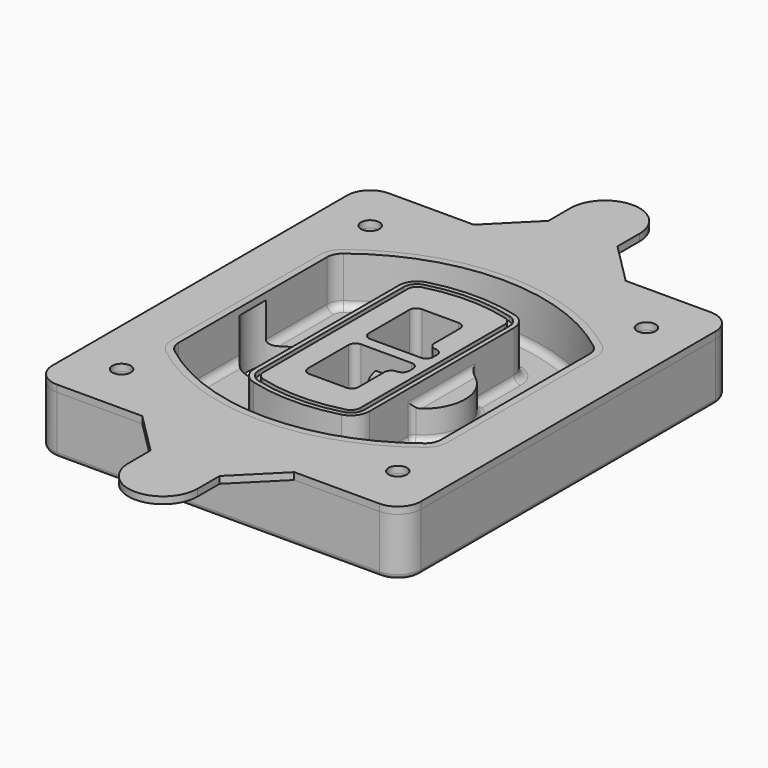
from build123d import *

# Parameters (mm, degrees)
F0_R      = 4
F1_DEPTH  = 25
F2_DEPTH  = 3
F3_DEPTH  = 18
F5_DEPTH  = 21
F6_DEPTH  = 2
F8_DEPTH  = 20
F9_DEPTH  = 16
F10_DEPTH = 25
F7_R      = 6
F7_R_2    = 4
F11_DEPTH = 6
F13_DEPTH = 9
F14_R     = 3
F15_R     = 2
F16_R     = 4
F16_R_2   = 6
F17_DEPTH = 3


with BuildPart() as f1:
    # F0 (on Top) → F1 (new body)
    with BuildSketch(Plane.XY):
        with BuildLine():
            ThreePointArc((-80, -80), (-77.0710678119, -87.0710678119), (-70, -90))
            Line((-70, -90), (70, -90))
            ThreePointArc((70, -90), (77.0710678119, -87.0710678119), (80, -80))
            Line((80, -80), (80, 80))
            ThreePointArc((80, 80), (77.0710678119, 87.0710678119), (70, 90))
            Line((70, 90), (-70, 90))
            ThreePointArc((-70, 90), (-77.0710678119, 87.0710678119), (-80, 80))
            Line((-80, 80), (-80, -80))
        make_face()
        with Locations((-60, -67.5)):
            Circle(F0_R, mode=Mode.SUBTRACT)
        with Locations((60, -67.5)):
            Circle(F0_R, mode=Mode.SUBTRACT)
        with Locations((-60, 67.5)):
            Circle(F0_R, mode=Mode.SUBTRACT)
        with BuildLine():
            ThreePointArc((-64, 40.2934422872), (-62.5820384798, 46.4328484224), (-58.6153846154, 51.3286200352))
            ThreePointArc((-58.6153846154, 51.3286200352), (0, 71.5), (58.6153846154, 51.3286200352))
            ThreePointArc((58.6153846154, 51.3286200352), (62.5820384798, 46.4328484224), (64, 40.2934422872))
            Line((64, 40.2934422872), (64, -40.2934422872))
            ThreePointArc((64, -40.2934422872), (62.5820384798, -46.4328484224), (58.6153846154, -51.3286200352))
            ThreePointArc((58.6153846154, -51.3286200352), (0, -71.5), (-58.6153846154, -51.3286200352))
            ThreePointArc((-58.6153846154, -51.3286200352), (-62.5820384798, -46.4328484224), (-64, -40.2934422872))
            Line((-64, -40.2934422872), (-64, 40.2934422872))
        make_face(mode=Mode.SUBTRACT)
        with Locations((60, 67.5)):
            Circle(F0_R, mode=Mode.SUBTRACT)
        with BuildLine():
            ThreePointArc((58.6153846154, 51.3286200352), (0, 71.5), (-58.6153846154, 51.3286200352))
            ThreePointArc((-58.6153846154, 51.3286200352), (-62.5820384798, 46.4328484224), (-64, 40.2934422872))
            Line((-64, 40.2934422872), (-64, -40.2934422872))
            ThreePointArc((-64, -40.2934422872), (-62.5820384798, -46.4328484224), (-58.6153846154, -51.3286200352))
            ThreePointArc((-58.6153846154, -51.3286200352), (0, -71.5), (58.6153846154, -51.3286200352))
            ThreePointArc((58.6153846154, -51.3286200352), (62.5820384798, -46.4328484224), (64, -40.2934422872))
            Line((64, -40.2934422872), (64, 40.2934422872))
            ThreePointArc((64, 40.2934422872), (62.5820384798, 46.4328484224), (58.6153846154, 51.3286200352))
        make_face()
        with BuildLine():
            Line((-60, -40.2934422872), (-60, 40.2934422872))
            ThreePointArc((-60, 40.2934422872), (-58.9871703427, 44.6787323838), (-56.1538461538, 48.1757121072))
            ThreePointArc((-56.1538461538, 48.1757121072), (0, 67.5), (56.1538461538, 48.1757121072))
            ThreePointArc((56.1538461538, 48.1757121072), (58.9871703427, 44.6787323838), (60, 40.2934422872))
            Line((60, 40.2934422872), (60, -40.2934422872))
            ThreePointArc((60, -40.2934422872), (58.9871703427, -44.6787323838), (56.1538461538, -48.1757121072))
            ThreePointArc((56.1538461538, -48.1757121072), (0, -67.5), (-56.1538461538, -48.1757121072))
            ThreePointArc((-56.1538461538, -48.1757121072), (-58.9871703427, -44.6787323838), (-60, -40.2934422872))
        make_face(mode=Mode.SUBTRACT)
        with BuildLine():
            ThreePointArc((-56.1538461538, 48.1757121072), (-58.9871703427, 44.6787323838), (-60, 40.2934422872))
            Line((-60, 40.2934422872), (-60, -40.2934422872))
            ThreePointArc((-60, -40.2934422872), (-58.9871703427, -44.6787323838), (-56.1538461538, -48.1757121072))
            ThreePointArc((-56.1538461538, -48.1757121072), (0, -67.5), (56.1538461538, -48.1757121072))
            ThreePointArc((56.1538461538, -48.1757121072), (58.9871703427, -44.6787323838), (60, -40.2934422872))
            Line((60, -40.2934422872), (60, 40.2934422872))
            ThreePointArc((60, 40.2934422872), (58.9871703427, 44.6787323838), (56.1538461538, 48.1757121072))
            ThreePointArc((56.1538461538, 48.1757121072), (0, 67.5), (-56.1538461538, 48.1757121072))
        make_face()
        with BuildLine():
            ThreePointArc((54.3076923077, 45.8110311612), (56.2910192399, 43.3631453548), (57, 40.2934422872))
            Line((57, 40.2934422872), (57, -40.2934422872))
            ThreePointArc((57, -40.2934422872), (56.2910192399, -43.3631453548), (54.3076923077, -45.8110311612))
            ThreePointArc((54.3076923077, -45.8110311612), (0, -64.5), (-54.3076923077, -45.8110311612))
            ThreePointArc((-54.3076923077, -45.8110311612), (-56.2910192399, -43.3631453548), (-57, -40.2934422872))
            Line((-57, -40.2934422872), (-57, 40.2934422872))
            ThreePointArc((-57, 40.2934422872), (-56.2910192399, 43.3631453548), (-54.3076923077, 45.8110311612))
            ThreePointArc((-54.3076923077, 45.8110311612), (0, 64.5), (54.3076923077, 45.8110311612))
        make_face(mode=Mode.SUBTRACT)
        with BuildLine():
            Line((57, -40.2934422872), (57, 40.2934422872))
            ThreePointArc((57, 40.2934422872), (56.2910192399, 43.3631453548), (54.3076923077, 45.8110311612))
            ThreePointArc((54.3076923077, 45.8110311612), (0, 64.5), (-54.3076923077, 45.8110311612))
            ThreePointArc((-54.3076923077, 45.8110311612), (-56.2910192399, 43.3631453548), (-57, 40.2934422872))
            Line((-57, 40.2934422872), (-57, -40.2934422872))
            ThreePointArc((-57, -40.2934422872), (-56.2910192399, -43.3631453548), (-54.3076923077, -45.8110311612))
            ThreePointArc((-54.3076923077, -45.8110311612), (0, -64.5), (54.3076923077, -45.8110311612))
            ThreePointArc((54.3076923077, -45.8110311612), (56.2910192399, -43.3631453548), (57, -40.2934422872))
        make_face()
    extrude(amount=-F1_DEPTH)

    # F0 (on Top) → F2 (join)
    with BuildSketch(Plane.XY):
        with BuildLine():
            ThreePointArc((-56.1538461538, 48.1757121072), (-58.9871703427, 44.6787323838), (-60, 40.2934422872))
            Line((-60, 40.2934422872), (-60, -40.2934422872))
            ThreePointArc((-60, -40.2934422872), (-58.9871703427, -44.6787323838), (-56.1538461538, -48.1757121072))
            ThreePointArc((-56.1538461538, -48.1757121072), (0, -67.5), (56.1538461538, -48.1757121072))
            ThreePointArc((56.1538461538, -48.1757121072), (58.9871703427, -44.6787323838), (60, -40.2934422872))
            Line((60, -40.2934422872), (60, 40.2934422872))
            ThreePointArc((60, 40.2934422872), (58.9871703427, 44.6787323838), (56.1538461538, 48.1757121072))
            ThreePointArc((56.1538461538, 48.1757121072), (0, 67.5), (-56.1538461538, 48.1757121072))
        make_face()
        with BuildLine():
            ThreePointArc((54.3076923077, 45.8110311612), (56.2910192399, 43.3631453548), (57, 40.2934422872))
            Line((57, 40.2934422872), (57, -40.2934422872))
            ThreePointArc((57, -40.2934422872), (56.2910192399, -43.3631453548), (54.3076923077, -45.8110311612))
            ThreePointArc((54.3076923077, -45.8110311612), (0, -64.5), (-54.3076923077, -45.8110311612))
            ThreePointArc((-54.3076923077, -45.8110311612), (-56.2910192399, -43.3631453548), (-57, -40.2934422872))
            Line((-57, -40.2934422872), (-57, 40.2934422872))
            ThreePointArc((-57, 40.2934422872), (-56.2910192399, 43.3631453548), (-54.3076923077, 45.8110311612))
            ThreePointArc((-54.3076923077, 45.8110311612), (0, 64.5), (54.3076923077, 45.8110311612))
        make_face(mode=Mode.SUBTRACT)
    extrude(amount=F2_DEPTH)

    # F0 (on Top) → F3 (cut)
    with BuildSketch(Plane.XY):
        with BuildLine():
            Line((57, -40.2934422872), (57, 40.2934422872))
            ThreePointArc((57, 40.2934422872), (56.2910192399, 43.3631453548), (54.3076923077, 45.8110311612))
            ThreePointArc((54.3076923077, 45.8110311612), (0, 64.5), (-54.3076923077, 45.8110311612))
            ThreePointArc((-54.3076923077, 45.8110311612), (-56.2910192399, 43.3631453548), (-57, 40.2934422872))
            Line((-57, 40.2934422872), (-57, -40.2934422872))
            ThreePointArc((-57, -40.2934422872), (-56.2910192399, -43.3631453548), (-54.3076923077, -45.8110311612))
            ThreePointArc((-54.3076923077, -45.8110311612), (0, -64.5), (54.3076923077, -45.8110311612))
            ThreePointArc((54.3076923077, -45.8110311612), (56.2910192399, -43.3631453548), (57, -40.2934422872))
        make_face()
    extrude(amount=-F3_DEPTH, mode=Mode.SUBTRACT)

    # F4 (on face) → F5 (join, through all)
    with BuildSketch(Plane.XY.offset(3)):
        with BuildLine():
            ThreePointArc((-25, -39.2465276821), (-23.3511545998, -44.1109737193), (-19.0842911877, -46.9702398883))
            ThreePointArc((-19.0842911877, -46.9702398883), (0, -49.5), (19.0842911877, -46.9702398883))
            ThreePointArc((19.0842911877, -46.9702398883), (23.3511545998, -44.1109737193), (25, -39.2465276821))
            Line((25, -39.2465276821), (25, 39.2465276821))
            ThreePointArc((25, 39.2465276821), (23.3511545998, 44.1109737193), (19.0842911877, 46.9702398883))
            ThreePointArc((19.0842911877, 46.9702398883), (0, 49.5), (-19.0842911877, 46.9702398883))
            ThreePointArc((-19.0842911877, 46.9702398883), (-23.3511545998, 44.1109737193), (-25, 39.2465276821))
            Line((-25, 39.2465276821), (-25, -39.2465276821))
        make_face()
        with BuildLine():
            ThreePointArc((18.5632183908, 45.0393118368), (21.7633659499, 42.89486221), (23, 39.2465276821))
            Line((23, 39.2465276821), (23, -39.2465276821))
            ThreePointArc((23, -39.2465276821), (21.7633659499, -42.89486221), (18.5632183908, -45.0393118368))
            ThreePointArc((18.5632183908, -45.0393118368), (0, -47.5), (-18.5632183908, -45.0393118368))
            ThreePointArc((-18.5632183908, -45.0393118368), (-21.7633659499, -42.89486221), (-23, -39.2465276821))
            Line((-23, -39.2465276821), (-23, 39.2465276821))
            ThreePointArc((-23, 39.2465276821), (-21.7633659499, 42.89486221), (-18.5632183908, 45.0393118368))
            ThreePointArc((-18.5632183908, 45.0393118368), (0, 47.5), (18.5632183908, 45.0393118368))
        make_face(mode=Mode.SUBTRACT)
        with BuildLine():
            Line((23, -39.2465276821), (23, 39.2465276821))
            ThreePointArc((23, 39.2465276821), (21.7633659499, 42.89486221), (18.5632183908, 45.0393118368))
            ThreePointArc((18.5632183908, 45.0393118368), (0, 47.5), (-18.5632183908, 45.0393118368))
            ThreePointArc((-18.5632183908, 45.0393118368), (-21.7633659499, 42.89486221), (-23, 39.2465276821))
            Line((-23, 39.2465276821), (-23, -39.2465276821))
            ThreePointArc((-23, -39.2465276821), (-21.7633659499, -42.89486221), (-18.5632183908, -45.0393118368))
            ThreePointArc((-18.5632183908, -45.0393118368), (0, -47.5), (18.5632183908, -45.0393118368))
            ThreePointArc((18.5632183908, -45.0393118368), (21.7633659499, -42.89486221), (23, -39.2465276821))
        make_face()
        with BuildLine():
            ThreePointArc((18.0421455939, 43.1083837852), (20.1755772999, 41.6787507007), (21, 39.2465276821))
            Line((21, 39.2465276821), (21, -39.2465276821))
            ThreePointArc((21, -39.2465276821), (20.1755772999, -41.6787507007), (18.0421455939, -43.1083837852))
            ThreePointArc((18.0421455939, -43.1083837852), (0, -45.5), (-18.0421455939, -43.1083837852))
            ThreePointArc((-18.0421455939, -43.1083837852), (-20.1755772999, -41.6787507007), (-21, -39.2465276821))
            Line((-21, -39.2465276821), (-21, 39.2465276821))
            ThreePointArc((-21, 39.2465276821), (-20.1755772999, 41.6787507007), (-18.0421455939, 43.1083837852))
            ThreePointArc((-18.0421455939, 43.1083837852), (0, 45.5), (18.0421455939, 43.1083837852))
        make_face(mode=Mode.SUBTRACT)
        with BuildLine():
            Line((21, -39.2465276821), (21, 39.2465276821))
            ThreePointArc((21, 39.2465276821), (20.1755772999, 41.6787507007), (18.0421455939, 43.1083837852))
            ThreePointArc((18.0421455939, 43.1083837852), (0, 45.5), (-18.0421455939, 43.1083837852))
            ThreePointArc((-18.0421455939, 43.1083837852), (-20.1755772999, 41.6787507007), (-21, 39.2465276821))
            Line((-21, 39.2465276821), (-21, -39.2465276821))
            ThreePointArc((-21, -39.2465276821), (-20.1755772999, -41.6787507007), (-18.0421455939, -43.1083837852))
            ThreePointArc((-18.0421455939, -43.1083837852), (0, -45.5), (18.0421455939, -43.1083837852))
            ThreePointArc((18.0421455939, -43.1083837852), (20.1755772999, -41.6787507007), (21, -39.2465276821))
        make_face()
        with BuildLine():
            Line((-8, -2.5), (14, -2.5))
            ThreePointArc((14, -2.5), (16.1213203436, -3.3786796564), (17, -5.5))
            Line((17, -5.5), (17, -7.5))
            ThreePointArc((17, -7.5), (16.1213203436, -9.6213203436), (14, -10.5))
            ThreePointArc((14, -10.5), (11.8786796564, -11.3786796564), (11, -13.5))
            Line((11, -13.5), (11, -27.5))
            ThreePointArc((11, -27.5), (10.1213203436, -29.6213203436), (8, -30.5))
            Line((8, -30.5), (-8, -30.5))
            ThreePointArc((-8, -30.5), (-10.1213203436, -29.6213203436), (-11, -27.5))
            Line((-11, -27.5), (-11, -5.5))
            ThreePointArc((-11, -5.5), (-10.1213203436, -3.3786796564), (-8, -2.5))
        make_face(mode=Mode.SUBTRACT)
        with BuildLine():
            ThreePointArc((-8, 2.5), (-10.1213203436, 3.3786796564), (-11, 5.5))
            Line((-11, 5.5), (-11, 27.5))
            ThreePointArc((-11, 27.5), (-10.1213203436, 29.6213203436), (-8, 30.5))
            Line((-8, 30.5), (8, 30.5))
            ThreePointArc((8, 30.5), (10.1213203436, 29.6213203436), (11, 27.5))
            Line((11, 27.5), (11, 13.5))
            ThreePointArc((11, 13.5), (11.8786796564, 11.3786796564), (14, 10.5))
            ThreePointArc((14, 10.5), (16.1213203436, 9.6213203436), (17, 7.5))
            Line((17, 7.5), (17, 5.5))
            ThreePointArc((17, 5.5), (16.1213203436, 3.3786796564), (14, 2.5))
            Line((14, 2.5), (-8, 2.5))
        make_face(mode=Mode.SUBTRACT)
    extrude(amount=-F5_DEPTH)

    # F4 (on face) → F6 (cut)
    with BuildSketch(Plane.XY.offset(3)):
        with BuildLine():
            Line((23, -39.2465276821), (23, 39.2465276821))
            ThreePointArc((23, 39.2465276821), (21.7633659499, 42.89486221), (18.5632183908, 45.0393118368))
            ThreePointArc((18.5632183908, 45.0393118368), (0, 47.5), (-18.5632183908, 45.0393118368))
            ThreePointArc((-18.5632183908, 45.0393118368), (-21.7633659499, 42.89486221), (-23, 39.2465276821))
            Line((-23, 39.2465276821), (-23, -39.2465276821))
            ThreePointArc((-23, -39.2465276821), (-21.7633659499, -42.89486221), (-18.5632183908, -45.0393118368))
            ThreePointArc((-18.5632183908, -45.0393118368), (0, -47.5), (18.5632183908, -45.0393118368))
            ThreePointArc((18.5632183908, -45.0393118368), (21.7633659499, -42.89486221), (23, -39.2465276821))
        make_face()
        with BuildLine():
            ThreePointArc((18.0421455939, 43.1083837852), (20.1755772999, 41.6787507007), (21, 39.2465276821))
            Line((21, 39.2465276821), (21, -39.2465276821))
            ThreePointArc((21, -39.2465276821), (20.1755772999, -41.6787507007), (18.0421455939, -43.1083837852))
            ThreePointArc((18.0421455939, -43.1083837852), (0, -45.5), (-18.0421455939, -43.1083837852))
            ThreePointArc((-18.0421455939, -43.1083837852), (-20.1755772999, -41.6787507007), (-21, -39.2465276821))
            Line((-21, -39.2465276821), (-21, 39.2465276821))
            ThreePointArc((-21, 39.2465276821), (-20.1755772999, 41.6787507007), (-18.0421455939, 43.1083837852))
            ThreePointArc((-18.0421455939, 43.1083837852), (0, 45.5), (18.0421455939, 43.1083837852))
        make_face(mode=Mode.SUBTRACT)
    extrude(amount=-F6_DEPTH, mode=Mode.SUBTRACT)

    # F7 (on face) → F8 (join)
    with BuildSketch(Plane(origin=(0, 0, -25), x_dir=(1, 0, 0), z_dir=(0, 0, -1))):
        with BuildLine():
            ThreePointArc((3.28842436, 0), (16.7567035675, 13.4682792075), (30.224982775, 0))
            Line((30.224982775, 0), (35.224982775, 0))
            ThreePointArc((35.224982775, 0), (16.7567035675, 18.4682792075), (-1.71157564, 0))
            Line((-1.71157564, 0), (3.28842436, 0))
        make_face()
        with BuildLine():
            Line((3.28842436, 0), (30.224982775, 0))
            ThreePointArc((30.224982775, 0), (16.7567035675, 13.4682792075), (3.28842436, 0))
        make_face()
        with BuildLine():
            ThreePointArc((3.28842436, 0), (16.7567035675, -13.4682792075), (30.224982775, 0))
            Line((30.224982775, 0), (3.28842436, 0))
        make_face()
        with BuildLine():
            Line((35.224982775, 0), (30.224982775, 0))
            ThreePointArc((30.224982775, 0), (16.7567035675, -13.4682792075), (3.28842436, 0))
            Line((3.28842436, 0), (-1.71157564, 0))
            ThreePointArc((-1.71157564, 0), (16.7567035675, -18.4682792075), (35.224982775, 0))
        make_face()
    extrude(amount=-F8_DEPTH)

    # F7 (on face) → F9 (cut)
    with BuildSketch(Plane(origin=(0, 0, -25), x_dir=(1, 0, 0), z_dir=(0, 0, -1))):
        with BuildLine():
            Line((3.28842436, 0), (30.224982775, 0))
            ThreePointArc((30.224982775, 0), (16.7567035675, 13.4682792075), (3.28842436, 0))
        make_face()
        with BuildLine():
            ThreePointArc((3.28842436, 0), (16.7567035675, -13.4682792075), (30.224982775, 0))
            Line((30.224982775, 0), (3.28842436, 0))
        make_face()
    extrude(amount=-F9_DEPTH, mode=Mode.SUBTRACT)

    # F7 (on face) → F10 (cut)
    with BuildSketch(Plane(origin=(0, 0, -25), x_dir=(1, 0, 0), z_dir=(0, 0, -1))):
        with BuildLine():
            Line((-59.0318229325, 0), (-32.0952645175, 0))
            ThreePointArc((-32.0952645175, 0), (-45.563543725, 13.4682792075), (-59.0318229325, 0))
        make_face()
        with BuildLine():
            ThreePointArc((-59.0318229325, 0), (-45.563543725, -13.4682792075), (-32.0952645175, 0))
            Line((-32.0952645175, 0), (-59.0318229325, 0))
        make_face()
    extrude(amount=-F10_DEPTH, mode=Mode.SUBTRACT)

    # F7 (on face) → F11 (cut)
    with BuildSketch(Plane(origin=(0, 0, -25), x_dir=(1, 0, 0), z_dir=(0, 0, -1))):
        with Locations((60, -67.5)):
            Circle(F7_R)
        with Locations((60, -67.5)):
            Circle(F7_R_2, mode=Mode.SUBTRACT)
        with Locations((60, -67.5)):
            Circle(F7_R)
        with Locations((60, -67.5)):
            Circle(F7_R_2, mode=Mode.SUBTRACT)
        with Locations((-60, -67.5)):
            Circle(F7_R)
        with Locations((-60, -67.5)):
            Circle(F7_R_2, mode=Mode.SUBTRACT)
        with Locations((-60, -67.5)):
            Circle(F7_R)
        with Locations((-60, -67.5)):
            Circle(F7_R_2, mode=Mode.SUBTRACT)
        with Locations((-60, 67.5)):
            Circle(F7_R)
        with Locations((-60, 67.5)):
            Circle(F7_R_2, mode=Mode.SUBTRACT)
        with Locations((-60, 67.5)):
            Circle(F7_R)
        with Locations((-60, 67.5)):
            Circle(F7_R_2, mode=Mode.SUBTRACT)
        with Locations((60, 67.5)):
            Circle(F7_R)
        with Locations((60, 67.5)):
            Circle(F7_R_2, mode=Mode.SUBTRACT)
        with Locations((60, 67.5)):
            Circle(F7_R)
        with Locations((60, 67.5)):
            Circle(F7_R_2, mode=Mode.SUBTRACT)
    extrude(amount=-F11_DEPTH, mode=Mode.SUBTRACT)

    # F12 (on face) → F13 (cut, through all)
    with BuildSketch(Plane(origin=(0, 0, -9), x_dir=(1, 0, 0), z_dir=(0, 0, -1))):
        with BuildLine():
            Line((11, 13.5), (11, 17.5481537753))
            ThreePointArc((11, 17.5481537753), (2.5696536419, 11.8239143813), (-1.5415842455, 2.5))
            Line((-1.5415842455, 2.5), (3.5224848595, 2.5))
            ThreePointArc((3.5224848595, 2.5), (6.1857188154, 8.3455872281), (11.2536447004, 12.2927168648))
            ThreePointArc((11.2536447004, 12.2927168648), (11.0640958889, 12.8831798879), (11, 13.5))
        make_face()
        with BuildLine():
            ThreePointArc((11.2536447004, -12.2927168648), (6.1857188154, -8.3455872281), (3.5224848595, -2.5))
            Line((3.5224848595, -2.5), (-1.5415842455, -2.5))
            ThreePointArc((-1.5415842455, -2.5), (2.5696536419, -11.8239143813), (11, -17.5481537753))
            Line((11, -17.5481537753), (11, -13.5))
            ThreePointArc((11, -13.5), (11.0640958889, -12.8831798879), (11.2536447004, -12.2927168648))
        make_face()
        with BuildLine():
            ThreePointArc((11.2536447004, 12.2927168648), (6.1857188154, 8.3455872281), (3.5224848595, 2.5))
            Line((3.5224848595, 2.5), (14, 2.5))
            ThreePointArc((14, 2.5), (16.1213203436, 3.3786796564), (17, 5.5))
            Line((17, 5.5), (17, 7.5))
            ThreePointArc((17, 7.5), (16.1213203436, 9.6213203436), (14, 10.5))
            ThreePointArc((14, 10.5), (12.3601599782, 10.9878446101), (11.2536447004, 12.2927168648))
        make_face()
        with BuildLine():
            Line((14, -2.5), (3.5224848595, -2.5))
            ThreePointArc((3.5224848595, -2.5), (6.1857188154, -8.3455872281), (11.2536447004, -12.2927168648))
            ThreePointArc((11.2536447004, -12.2927168648), (12.3601599782, -10.9878446101), (14, -10.5))
            ThreePointArc((14, -10.5), (16.1213203436, -9.6213203436), (17, -7.5))
            Line((17, -7.5), (17, -5.5))
            ThreePointArc((17, -5.5), (16.1213203436, -3.3786796564), (14, -2.5))
        make_face()
    extrude(amount=F13_DEPTH, mode=Mode.SUBTRACT)

    # F14
    f14_edges = [f1.edges().sort_by_distance(p)[0] for p in [
        (-57, -23.703476, -18),
        (-57, 23.703476, -18),
        (25, 0, -5),
        (25, 16.526506, -11.5),
        (25, -16.526506, -11.5),
        (25, -27.886517, -18),
        (35.224983, 0, -18),
    ]]
    fillet(f14_edges, radius=F14_R)

    # F15
    f15_edges = [f1.edges().sort_by_distance(p)[0] for p in [
        (0, -90, -25),
    ]]
    fillet(f15_edges, radius=F15_R)


with BuildPart() as f17:
    # F16 (on face) → F17 (new body, through all)
    with BuildSketch(Plane.XY):
        with BuildLine():
            Line((33, 90), (-33, 90))
            Line((-33, 90), (-70, 90))
            ThreePointArc((-70, 90), (-77.0710678119, 87.0710678119), (-80, 80))
            Line((-80, 80), (-80, -80))
            ThreePointArc((-80, -80), (-77.0710678119, -87.0710678119), (-70, -90))
            Line((-70, -90), (-33, -90))
            Line((-33, -90), (33, -90))
            Line((33, -90), (70, -90))
            ThreePointArc((70, -90), (77.0710678119, -87.0710678119), (80, -80))
            Line((80, -80), (80, 80))
            ThreePointArc((80, 80), (77.0710678119, 87.0710678119), (70, 90))
            Line((70, 90), (33, 90))
        make_face()
        with Locations((-60, -67.5)):
            Circle(F16_R, mode=Mode.SUBTRACT)
        with Locations((60, -67.5)):
            Circle(F16_R, mode=Mode.SUBTRACT)
        with Locations((-60, 67.5)):
            Circle(F16_R, mode=Mode.SUBTRACT)
        with BuildLine():
            ThreePointArc((-60, 40.2934422872), (-58.9871703427, 44.6787323838), (-56.1538461538, 48.1757121072))
            ThreePointArc((-56.1538461538, 48.1757121072), (0, 67.5), (56.1538461538, 48.1757121072))
            ThreePointArc((56.1538461538, 48.1757121072), (58.9871703427, 44.6787323838), (60, 40.2934422872))
            Line((60, 40.2934422872), (60, -40.2934422872))
            ThreePointArc((60, -40.2934422872), (58.9871703427, -44.6787323838), (56.1538461538, -48.1757121072))
            ThreePointArc((56.1538461538, -48.1757121072), (0, -67.5), (-56.1538461538, -48.1757121072))
            ThreePointArc((-56.1538461538, -48.1757121072), (-58.9871703427, -44.6787323838), (-60, -40.2934422872))
            Line((-60, -40.2934422872), (-60, 40.2934422872))
        make_face(mode=Mode.SUBTRACT)
        with Locations((60, 67.5)):
            Circle(F16_R, mode=Mode.SUBTRACT)
        with BuildLine():
            Line((33, -90), (-33, -90))
            Line((-33, -90), (-15, -108))
            Line((-15, -108), (-15, -120))
            ThreePointArc((-15, -120), (0, -135), (15, -120))
            Line((15, -120), (15, -108))
            Line((15, -108), (33, -90))
        make_face()
        with Locations((0, -120)):
            Circle(F16_R_2, mode=Mode.SUBTRACT)
        with BuildLine():
            ThreePointArc((15, 120), (0, 135), (-15, 120))
            Line((-15, 120), (-15, 108))
            Line((-15, 108), (-33, 90))
            Line((-33, 90), (33, 90))
            Line((33, 90), (15, 108))
            Line((15, 108), (15, 120))
        make_face()
        with Locations((0, 120)):
            Circle(F16_R_2, mode=Mode.SUBTRACT)
        with Locations((0, 120)):
            Circle(F16_R_2)
        with Locations((0, -120)):
            Circle(F16_R_2)
    extrude(amount=F17_DEPTH)


solid = Compound([f1.part, f17.part])
